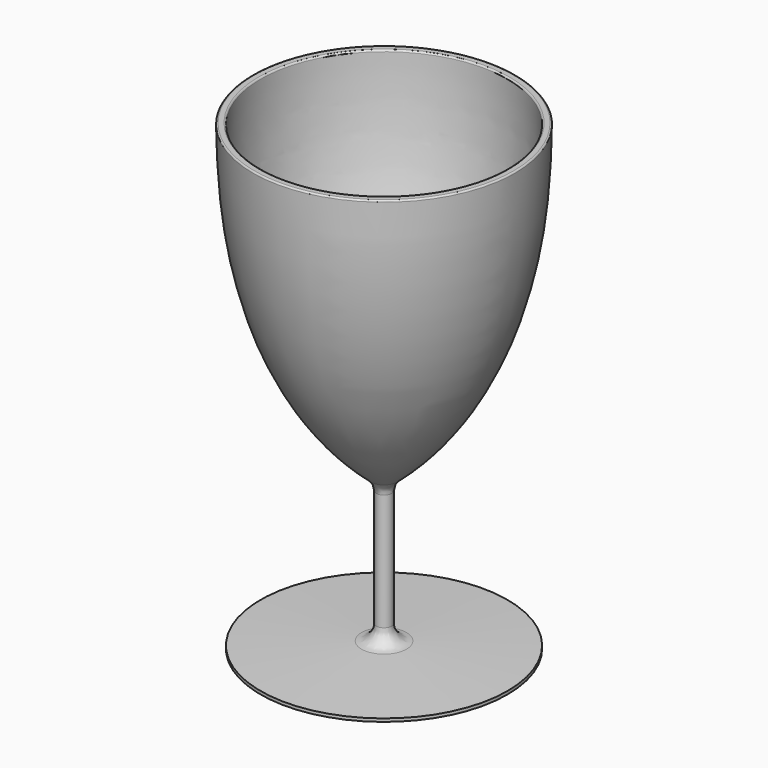
from build123d import *

# Parameters (mm, degrees)
FILLET_R    = 0.5
FILLET001_R = 5


with BuildPart() as part:
    # Sketch → Revolution (revolve)
    with BuildSketch(Plane.XZ):
        with BuildLine():
            Line((0, 50), (0, 0))
            Line((0, 0), (40, 0))
            Line((40, 0), (40, 1))
            Line((40, 1), (2.5, 2.5))
            Line((2.5, 2.5), (2.5, 47.5))
            add(Edge.make_bspline(
                [(42.5, 150), (42.5, 80), (2.5, 47.5)],
                knots=[0, 0, 0, 1, 1, 1], degree=2))
            Line((42.5, 150), (40, 150))
            add(Edge.make_bspline(
                [(0, 50), (40, 82.5), (40, 150)],
                knots=[0, 0, 0, 1, 1, 1], degree=2))
        make_face()
    revolve(axis=Axis((0, 0, 0), (0, 0, 1)))

    # Fillet
    fillet_edges = [part.edges().sort_by_distance(p)[0] for p in [
        (-40, 0, 150),
        (-42.5, 0, 150),
    ]]
    fillet(fillet_edges, radius=FILLET_R)

    # Fillet001
    fillet001_edges = [part.edges().sort_by_distance(p)[0] for p in [
        (-2.5, 0, 2.5),
        (-2.5, 0, 47.5),
    ]]
    fillet(fillet001_edges, radius=FILLET001_R)


solid = part.part
